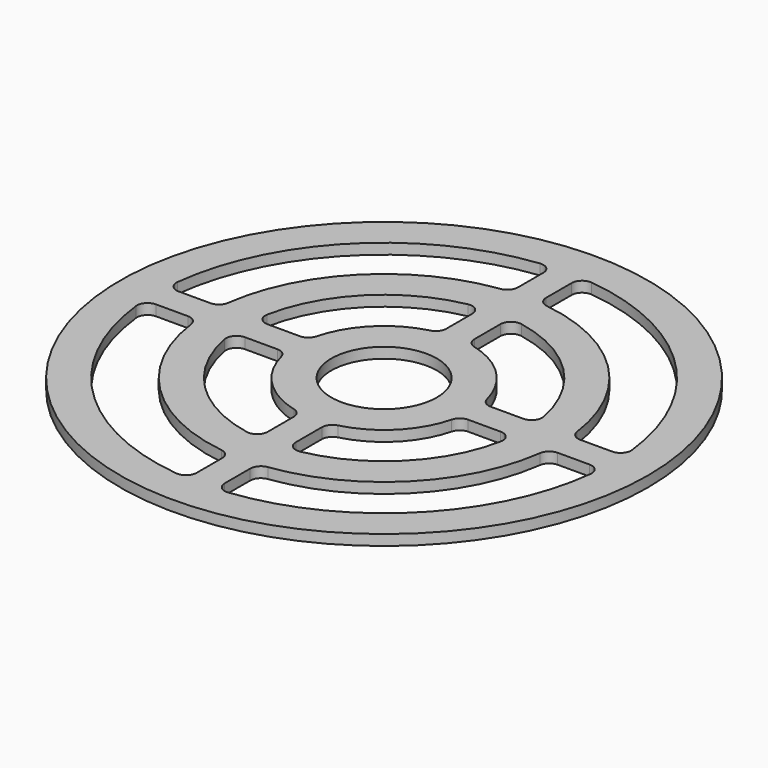
from build123d import *

# Parameters (mm, degrees)
F0_R     = 75
F0_R_2   = 15
F1_DEPTH = 3
F2_R     = 3


with BuildPart() as f1:
    # F0 (on Top) → F1 (new body)
    with BuildSketch(Plane.XY):
        Circle(F0_R)
        with BuildLine():
            ThreePointArc((4, 64.876806), (45.961941, 45.961941), (64.876806, 4))
            ThreePointArc((64.876806, 4), (64.969194, 2.000948), (65, 0))
            ThreePointArc((65, 0), (64.969194, -2.000948), (64.876806, -4))
            ThreePointArc((64.876806, -4), (45.961941, -45.961941), (4, -64.876806))
            ThreePointArc((4, -64.876806), (0, -65), (-4, -64.876806))
            ThreePointArc((-4, -64.876806), (-45.961941, -45.961941), (-64.876806, -4))
            ThreePointArc((-64.876806, -4), (-65, 0), (-64.876806, 4))
            ThreePointArc((-64.876806, 4), (-45.961941, 45.961941), (-4, 64.876806))
            ThreePointArc((-4, 64.876806), (0, 65), (4, 64.876806))
        make_face(mode=Mode.SUBTRACT)
        with BuildLine():
            ThreePointArc((-4, 49.839743), (0, 50), (4, 49.839743))
            Line((4, 49.839743), (4, 64.876806))
            ThreePointArc((4, 64.876806), (0, 65), (-4, 64.876806))
            Line((-4, 64.876806), (-4, 49.839743))
        make_face()
        with BuildLine():
            ThreePointArc((49.839743, -4), (49.95992, -2.001604), (50, 0))
            ThreePointArc((50, 0), (49.95992, 2.001604), (49.839743, 4))
            ThreePointArc((49.839743, 4), (35.355339, 35.355339), (4, 49.839743))
            ThreePointArc((4, 49.839743), (0, 50), (-4, 49.839743))
            ThreePointArc((-4, 49.839743), (-35.355339, 35.355339), (-49.839743, 4))
            ThreePointArc((-49.839743, 4), (-50, 0), (-49.839743, -4))
            ThreePointArc((-49.839743, -4), (-35.355339, -35.355339), (-4, -49.839743))
            ThreePointArc((-4, -49.839743), (0, -50), (4, -49.839743))
            ThreePointArc((4, -49.839743), (35.355339, -35.355339), (49.839743, -4))
        make_face()
        with BuildLine():
            ThreePointArc((39.799497, 4), (39.949843, 2.002511), (40, 0))
            ThreePointArc((40, 0), (39.949843, -2.002511), (39.799497, -4))
            ThreePointArc((39.799497, -4), (28.284271, -28.284271), (4, -39.799497))
            ThreePointArc((4, -39.799497), (0, -40), (-4, -39.799497))
            ThreePointArc((-4, -39.799497), (-28.284271, -28.284271), (-39.799497, -4))
            ThreePointArc((-39.799497, -4), (-40, 0), (-39.799497, 4))
            ThreePointArc((-39.799497, 4), (-28.284271, 28.284271), (-4, 39.799497))
            ThreePointArc((-4, 39.799497), (0, 40), (4, 39.799497))
            ThreePointArc((4, 39.799497), (28.284271, 28.284271), (39.799497, 4))
        make_face(mode=Mode.SUBTRACT)
        with BuildLine():
            Line((4, 24.677925), (4, 39.799497))
            ThreePointArc((4, 39.799497), (0, 40), (-4, 39.799497))
            Line((-4, 39.799497), (-4, 24.677925))
            ThreePointArc((-4, 24.677925), (0, 25), (4, 24.677925))
        make_face()
        with BuildLine():
            ThreePointArc((25, 0), (24.919351, 2.006473), (24.677925, 4))
            ThreePointArc((24.677925, 4), (17.67767, 17.67767), (4, 24.677925))
            ThreePointArc((4, 24.677925), (0, 25), (-4, 24.677925))
            ThreePointArc((-4, 24.677925), (-17.67767, 17.67767), (-24.677925, 4))
            ThreePointArc((-24.677925, 4), (-25, 0), (-24.677925, -4))
            ThreePointArc((-24.677925, -4), (-17.67767, -17.67767), (-4, -24.677925))
            ThreePointArc((-4, -24.677925), (0, -25), (4, -24.677925))
            ThreePointArc((4, -24.677925), (17.67767, -17.67767), (24.677925, -4))
            ThreePointArc((24.677925, -4), (24.919351, -2.006473), (25, 0))
        make_face()
        Circle(F0_R_2, mode=Mode.SUBTRACT)
        with BuildLine():
            Line((-24.677925, 4), (-39.799497, 4))
            ThreePointArc((-39.799497, 4), (-40, 0), (-39.799497, -4))
            Line((-39.799497, -4), (-24.677925, -4))
            ThreePointArc((-24.677925, -4), (-25, 0), (-24.677925, 4))
        make_face()
        with BuildLine():
            ThreePointArc((-49.839743, -4), (-50, 0), (-49.839743, 4))
            Line((-49.839743, 4), (-64.876806, 4))
            ThreePointArc((-64.876806, 4), (-65, 0), (-64.876806, -4))
            Line((-64.876806, -4), (-49.839743, -4))
        make_face()
        with BuildLine():
            ThreePointArc((-4, -39.799497), (0, -40), (4, -39.799497))
            Line((4, -39.799497), (4, -24.677925))
            ThreePointArc((4, -24.677925), (0, -25), (-4, -24.677925))
            Line((-4, -24.677925), (-4, -39.799497))
        make_face()
        with BuildLine():
            Line((4, -64.876806), (4, -49.839743))
            ThreePointArc((4, -49.839743), (0, -50), (-4, -49.839743))
            Line((-4, -49.839743), (-4, -64.876806))
            ThreePointArc((-4, -64.876806), (0, -65), (4, -64.876806))
        make_face()
        with BuildLine():
            ThreePointArc((39.799497, -4), (39.949843, -2.002511), (40, 0))
            ThreePointArc((40, 0), (39.949843, 2.002511), (39.799497, 4))
            Line((39.799497, 4), (24.677925, 4))
            ThreePointArc((24.677925, 4), (24.919351, 2.006473), (25, 0))
            ThreePointArc((25, 0), (24.919351, -2.006473), (24.677925, -4))
            Line((24.677925, -4), (39.799497, -4))
        make_face()
        with BuildLine():
            ThreePointArc((49.839743, 4), (49.95992, 2.001604), (50, 0))
            ThreePointArc((50, 0), (49.95992, -2.001604), (49.839743, -4))
            Line((49.839743, -4), (64.876806, -4))
            ThreePointArc((64.876806, -4), (64.969194, -2.000948), (65, 0))
            ThreePointArc((65, 0), (64.969194, 2.000948), (64.876806, 4))
            Line((64.876806, 4), (49.839743, 4))
        make_face()
    extrude(amount=F1_DEPTH)

    # F2
    f2_edges = [f1.edges().sort_by_distance(p)[0] for p in [
        (-64.876806, 4, 1.5),
        (-39.799497, 4, 1.5),
        (4, 24.677925, 1.5),
        (49.839743, 4, 1.5),
        (24.677925, 4, 1.5),
        (4, -39.799497, 1.5),
        (4, -64.876806, 1.5),
        (4, 49.839743, 1.5),
        (64.876806, -4, 1.5),
        (39.799497, -4, 1.5),
        (-4, 39.799497, 1.5),
        (-4, -24.677925, 1.5),
        (-4, -49.839743, 1.5),
        (-49.839743, -4, 1.5),
        (-4, 64.876806, 1.5),
        (4, 64.876806, 1.5),
        (-64.876806, -4, 1.5),
        (-39.799497, -4, 1.5),
        (24.677925, -4, 1.5),
        (49.839743, -4, 1.5),
        (4, -49.839743, 1.5),
        (-4, -64.876806, 1.5),
        (-4, -39.799497, 1.5),
        (-24.677925, 4, 1.5),
        (39.799497, 4, 1.5),
        (64.876806, 4, 1.5),
        (-4, 24.677925, 1.5),
        (-4, 49.839743, 1.5),
        (-49.839743, 4, 1.5),
        (4, -24.677925, 1.5),
        (4, 39.799497, 1.5),
        (-24.677925, -4, 1.5),
    ]]
    fillet(f2_edges, radius=F2_R)


solid = f1.part
